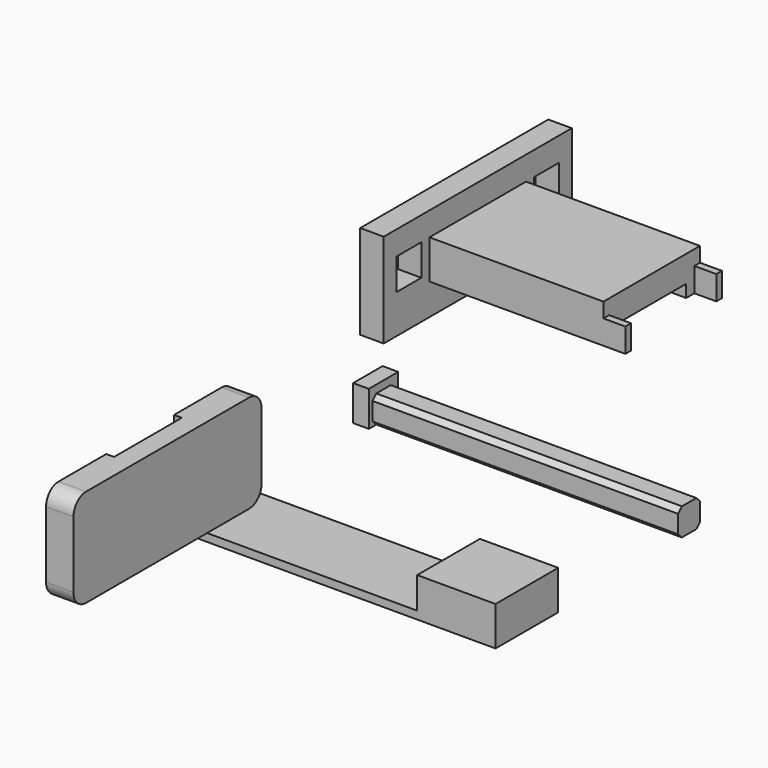
from build123d import *

# Parameters (mm, degrees)
F0_W      = 12.7
F0_H      = 5.08
F1_DEPTH  = 12.7
F3_DEPTH  = 3.175
F4_W      = 6.858
F4_H      = 7.493
F5_DEPTH  = 1.5875
F4_W_2    = 5.08
F4_H_2    = 5.08
F6_DEPTH  = 1.27
F8_DEPTH  = 49.53
F9_DEPTH  = 2.54
F10_W     = 38.1
F10_H     = 15.24
F11_DEPTH = 3.81
F12_W     = 5.08
F12_H     = 5.08
F13_DEPTH = 10.16
F14_DEPTH = 31.75
F15_W     = 1.143
F15_H     = 2.398644
F16_DEPTH = 3.556


with BuildPart() as f1:
    # F0 (on Front) → F1 (new body)
    with BuildSketch(Plane.XZ):
        with Locations((36.240261, 14.444349)):
            Rectangle(F0_W, F0_H)
        Polygon((29.890261, 11.904349), (-13.289739, 11.904349), (-13.289739, 10.634349), (42.590261, 10.634349), (42.590261, 11.904349), align=None)
    extrude(amount=F1_DEPTH)


with BuildPart() as f3:
    # F2 (on Right) → F3 (new body)
    with BuildSketch(Plane.YZ):
        with BuildLine():
            Line((-13.372463, 33.893205), (-46.392463, 33.893205))
            ThreePointArc((-46.392463, 33.893205), (-48.188514, 33.149256), (-48.932463, 31.353205))
            Line((-48.932463, 31.353205), (-48.932463, 20.558205))
            ThreePointArc((-48.932463, 20.558205), (-48.188514, 18.762153), (-46.392463, 18.018205))
            Line((-46.392463, 18.018205), (-13.372463, 18.018205))
            ThreePointArc((-13.372463, 18.018205), (-11.576412, 18.762153), (-10.832463, 20.558205))
            Line((-10.832463, 20.558205), (-10.832463, 31.353205))
            ThreePointArc((-10.832463, 31.353205), (-11.576412, 33.149256), (-13.372463, 33.893205))
        make_face()
    extrude(amount=F3_DEPTH)

    # F4 (on face) → F5 (cut)
    with BuildSketch(Plane(origin=(0, 0, 0), x_dir=(0, -1, 0), z_dir=(-1, 0, 0))):
        with Locations((26.453463, 25.955705)):
            Rectangle(F4_W, F4_H)
        with Locations((33.311463, 25.955705)):
            Rectangle(F4_W, F4_H)
    extrude(amount=-F5_DEPTH, mode=Mode.SUBTRACT)

    # F4 (on face) → F6 (join)
    with BuildSketch(Plane(origin=(0, 0, 0), x_dir=(0, -1, 0), z_dir=(-1, 0, 0))):
        with BuildLine():
            Line((23.024463, 22.209205), (23.024463, 29.702205))
            Line((23.024463, 29.702205), (23.024463, 33.893205))
            Line((23.024463, 33.893205), (13.372463, 33.893205))
            ThreePointArc((13.372463, 33.893205), (11.576412, 33.149256), (10.832463, 31.353205))
            Line((10.832463, 31.353205), (10.832463, 22.209205))
            Line((10.832463, 22.209205), (23.024463, 22.209205))
        make_face()
        with Locations((15.912463, 25.955705)):
            Rectangle(F4_W_2, F4_H_2, mode=Mode.SUBTRACT)
        with BuildLine():
            Line((23.024463, 18.018205), (23.024463, 22.209205))
            Line((23.024463, 22.209205), (10.832463, 22.209205))
            Line((10.832463, 22.209205), (10.832463, 20.558205))
            ThreePointArc((10.832463, 20.558205), (11.576412, 18.762153), (13.372463, 18.018205))
            Line((13.372463, 18.018205), (23.024463, 18.018205))
        make_face()
        with BuildLine():
            Line((48.932463, 22.209205), (36.740463, 22.209205))
            Line((36.740463, 22.209205), (36.740463, 18.018205))
            Line((36.740463, 18.018205), (46.392463, 18.018205))
            ThreePointArc((46.392463, 18.018205), (48.188514, 18.762153), (48.932463, 20.558205))
            Line((48.932463, 20.558205), (48.932463, 22.209205))
        make_face()
        with BuildLine():
            Line((36.740463, 33.893205), (36.740463, 29.702205))
            Line((36.740463, 29.702205), (36.740463, 22.209205))
            Line((36.740463, 22.209205), (48.932463, 22.209205))
            Line((48.932463, 22.209205), (48.932463, 23.415705))
            Line((48.932463, 23.415705), (48.932463, 31.353205))
            ThreePointArc((48.932463, 31.353205), (48.188514, 33.149256), (46.392463, 33.893205))
            Line((46.392463, 33.893205), (36.740463, 33.893205))
        make_face()
        with Locations((43.852463, 25.955705)):
            Rectangle(F4_W_2, F4_H_2, mode=Mode.SUBTRACT)
    extrude(amount=F6_DEPTH)


with BuildPart() as f8:
    # F7 (on Right) → F8 (new body)
    with BuildSketch(Plane.YZ):
        Polygon((19.29993, 21.358911), (16.37893, 21.358911), (15.61693, 20.596911), (15.61693, 19.136411), (15.61693, 17.675911), (16.37893, 16.913911), (17.83943, 16.913911), (19.29993, 16.913911), (20.06193, 17.675911), (20.06193, 20.596911), align=None)
    extrude(amount=F8_DEPTH)

    # F7 (on Right) → F9 (join)
    with BuildSketch(Plane.YZ):
        Polygon((20.06193, 22.628911), (20.06193, 21.358911), (20.06193, 20.596911), (20.06193, 17.675911), (20.06193, 16.913911), (20.82393, 16.913911), (20.82393, 22.628911), align=None)
        Polygon((19.29993, 21.358911), (16.37893, 21.358911), (15.61693, 20.596911), (15.61693, 19.136411), (15.61693, 17.675911), (16.37893, 16.913911), (17.83943, 16.913911), (19.29993, 16.913911), (20.06193, 17.675911), (20.06193, 20.596911), align=None)
        Polygon((20.06193, 16.913911), (20.06193, 17.675911), (19.29993, 16.913911), align=None)
        Polygon((16.37893, 16.913911), (15.61693, 17.675911), (15.61693, 16.913911), align=None)
        Polygon((16.37893, 21.358911), (15.61693, 21.358911), (15.61693, 20.596911), align=None)
        Polygon((20.06193, 21.358911), (19.29993, 21.358911), (20.06193, 20.596911), align=None)
        Polygon((15.61693, 20.596911), (15.61693, 21.358911), (16.37893, 21.358911), (19.29993, 21.358911), (20.06193, 21.358911), (20.06193, 22.628911), (14.85493, 22.628911), (14.85493, 16.913911), (15.61693, 16.913911), (15.61693, 17.675911), (15.61693, 19.136411), align=None)
    extrude(amount=-F9_DEPTH)


with BuildPart() as f11:
    # F10 (on Right) → F11 (new body)
    with BuildSketch(Plane.YZ):
        with Locations((32.171498, 38.659832)):
            Rectangle(F10_W, F10_H)
    extrude(amount=F11_DEPTH)

    # F12 (on face) → F13 (cut)
    with BuildSketch(Plane.YZ.offset(3.81)):
        Polygon((32.171498, 38.151832), (25.186498, 38.151832), (25.186498, 36.119832), (32.171498, 36.119832), (39.156498, 36.119832), (39.156498, 38.151832), align=None)
        with Locations((46.141498, 39.866332)):
            Rectangle(F12_W, F12_H)
        with Locations((18.201498, 39.866332)):
            Rectangle(F12_W, F12_H)
    extrude(amount=-F13_DEPTH, mode=Mode.SUBTRACT)

    # F12 (on face) → F14 (join)
    with BuildSketch(Plane.YZ.offset(3.81)):
        Polygon((25.186498, 36.119832), (25.186498, 38.151832), (32.171498, 38.151832), (32.171498, 42.422619), (22.392498, 42.422619), (22.392498, 36.119832), align=None)
        Polygon((32.171498, 42.422619), (32.171498, 38.151832), (39.156498, 38.151832), (39.156498, 36.119832), (41.950498, 36.119832), (41.950498, 42.422619), align=None)
    extrude(amount=F14_DEPTH)

    # F15 (on face) → F16 (cut)
    with BuildSketch(Plane.YZ.offset(35.56)):
        Polygon((32.171498, 42.422619), (23.535498, 42.422619), (23.535498, 40.023975), (23.535498, 36.119832), (25.186498, 36.119832), (25.186498, 38.151832), (39.156498, 38.151832), (39.156498, 36.119832), (40.807498, 36.119832), (40.807498, 40.023975), (40.807498, 42.422619), align=None)
        with Locations((22.963998, 41.223297)):
            Rectangle(F15_W, F15_H)
        with Locations((41.378998, 41.223297)):
            Rectangle(F15_W, F15_H)
    extrude(amount=-F16_DEPTH, mode=Mode.SUBTRACT)


solid = Compound([f1.part, f3.part, f8.part, f11.part])
